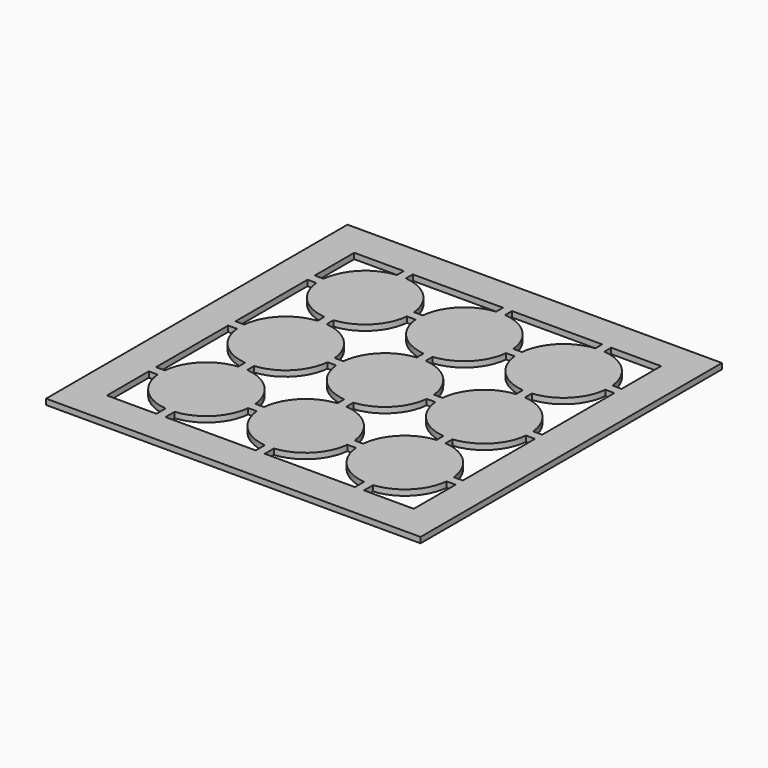
from build123d import *

# Parameters (mm, degrees)
F0_W     = 105.460206
F0_H     = 106.09659
F1_DEPTH = 1.6


with BuildPart() as f1:
    # F0 (on Top) → F1 (new body)
    with BuildSketch(Plane.XY):
        with Locations((236.142386, 64.362091)):
            Rectangle(F0_W, F0_H)
        with BuildLine():
            Line((192.937283, 35.55936), (195.399541, 35.55936))
            ThreePointArc((195.399541, 35.55936), (199.093456, 27.759301), (206.893515, 24.065386))
            Line((206.893515, 24.065386), (206.893515, 20.838796))
            Line((206.893515, 20.838796), (192.937283, 20.838796))
            Line((192.937283, 20.838796), (192.937283, 35.55936))
        make_face(mode=Mode.SUBTRACT)
        with BuildLine():
            Line((234.833515, 20.838796), (209.433515, 20.838796))
            Line((209.433515, 20.838796), (209.433515, 24.065386))
            ThreePointArc((209.433515, 24.065386), (217.233573, 27.759301), (220.927489, 35.55936))
            Line((220.927489, 35.55936), (223.339541, 35.55936))
            ThreePointArc((223.339541, 35.55936), (227.033456, 27.759301), (234.833515, 24.065386))
            Line((234.833515, 24.065386), (234.833515, 20.838796))
        make_face(mode=Mode.SUBTRACT)
        with BuildLine():
            Line((206.893515, 52.005386), (206.893515, 49.593334))
            ThreePointArc((206.893515, 49.593334), (199.099195, 45.905154), (195.401158, 38.115505))
            Line((195.401158, 38.115505), (192.937283, 38.115505))
            Line((192.937283, 38.115505), (192.937283, 63.49936))
            Line((192.937283, 63.49936), (195.399541, 63.49936))
            ThreePointArc((195.399541, 63.49936), (199.093456, 55.699301), (206.893515, 52.005386))
        make_face(mode=Mode.SUBTRACT)
        with BuildLine():
            Line((223.341158, 38.115505), (220.925872, 38.115505))
            ThreePointArc((220.925872, 38.115505), (217.227835, 45.905154), (209.433515, 49.593334))
            Line((209.433515, 49.593334), (209.433515, 52.005386))
            ThreePointArc((209.433515, 52.005386), (217.233573, 55.699301), (220.927489, 63.49936))
            Line((220.927489, 63.49936), (223.339541, 63.49936))
            ThreePointArc((223.339541, 63.49936), (227.033456, 55.699301), (234.833515, 52.005386))
            Line((234.833515, 52.005386), (234.833515, 49.593334))
            ThreePointArc((234.833515, 49.593334), (227.039195, 45.905154), (223.341158, 38.115505))
        make_face(mode=Mode.SUBTRACT)
        with BuildLine():
            Line((237.373515, 20.838796), (237.373515, 24.065386))
            ThreePointArc((237.373515, 24.065386), (245.173573, 27.759301), (248.867489, 35.55936))
            Line((248.867489, 35.55936), (251.279541, 35.55936))
            ThreePointArc((251.279541, 35.55936), (254.973456, 27.759301), (262.773515, 24.065386))
            Line((262.773515, 24.065386), (262.773515, 20.838796))
            Line((262.773515, 20.838796), (237.373515, 20.838796))
        make_face(mode=Mode.SUBTRACT)
        with BuildLine():
            Line((265.313515, 20.838796), (265.313515, 24.065386))
            ThreePointArc((265.313515, 24.065386), (273.113573, 27.759301), (276.807489, 35.55936))
            Line((276.807489, 35.55936), (279.347489, 35.55936))
            Line((279.347489, 35.55936), (279.347489, 20.838796))
            Line((279.347489, 20.838796), (265.313515, 20.838796))
        make_face(mode=Mode.SUBTRACT)
        with BuildLine():
            Line((251.281158, 38.115505), (248.865872, 38.115505))
            ThreePointArc((248.865872, 38.115505), (245.167835, 45.905154), (237.373515, 49.593334))
            Line((237.373515, 49.593334), (237.373515, 52.005386))
            ThreePointArc((237.373515, 52.005386), (245.173573, 55.699301), (248.867489, 63.49936))
            Line((248.867489, 63.49936), (251.279541, 63.49936))
            ThreePointArc((251.279541, 63.49936), (254.973456, 55.699301), (262.773515, 52.005386))
            Line((262.773515, 52.005386), (262.773515, 49.593334))
            ThreePointArc((262.773515, 49.593334), (254.979195, 45.905154), (251.281158, 38.115505))
        make_face(mode=Mode.SUBTRACT)
        with BuildLine():
            Line((279.347489, 38.09936), (276.807489, 38.09936))
            ThreePointArc((276.807489, 38.09936), (273.113573, 45.899419), (265.313515, 49.593334))
            Line((265.313515, 49.593334), (265.313515, 52.005386))
            ThreePointArc((265.313515, 52.005386), (273.113573, 55.699301), (276.807489, 63.49936))
            Line((276.807489, 63.49936), (279.347489, 63.49936))
            Line((279.347489, 63.49936), (279.347489, 38.09936))
        make_face(mode=Mode.SUBTRACT)
        with BuildLine():
            Line((206.893515, 79.945386), (206.893515, 77.533334))
            ThreePointArc((206.893515, 77.533334), (199.099195, 73.845154), (195.401158, 66.055505))
            Line((195.401158, 66.055505), (192.937283, 66.055505))
            Line((192.937283, 66.055505), (192.937283, 91.43936))
            Line((192.937283, 91.43936), (195.399541, 91.43936))
            ThreePointArc((195.399541, 91.43936), (199.093456, 83.639301), (206.893515, 79.945386))
        make_face(mode=Mode.SUBTRACT)
        with BuildLine():
            Line((223.341158, 66.055505), (220.925872, 66.055505))
            ThreePointArc((220.925872, 66.055505), (217.227835, 73.845154), (209.433515, 77.533334))
            Line((209.433515, 77.533334), (209.433515, 79.945386))
            ThreePointArc((209.433515, 79.945386), (217.233573, 83.639301), (220.927489, 91.43936))
            Line((220.927489, 91.43936), (223.339541, 91.43936))
            ThreePointArc((223.339541, 91.43936), (227.033456, 83.639301), (234.833515, 79.945386))
            Line((234.833515, 79.945386), (234.833515, 77.533334))
            ThreePointArc((234.833515, 77.533334), (227.039195, 73.845154), (223.341158, 66.055505))
        make_face(mode=Mode.SUBTRACT)
        with BuildLine():
            Line((206.893515, 107.885386), (206.893515, 105.473334))
            ThreePointArc((206.893515, 105.473334), (199.099195, 101.785154), (195.401158, 93.995505))
            Line((195.401158, 93.995505), (192.937283, 93.995505))
            Line((192.937283, 93.995505), (192.937283, 107.885386))
            Line((192.937283, 107.885386), (206.893515, 107.885386))
        make_face(mode=Mode.SUBTRACT)
        with BuildLine():
            Line((223.341158, 93.995505), (220.925872, 93.995505))
            ThreePointArc((220.925872, 93.995505), (217.227835, 101.785154), (209.433515, 105.473334))
            Line((209.433515, 105.473334), (209.433515, 107.885386))
            Line((209.433515, 107.885386), (234.833515, 107.885386))
            Line((234.833515, 107.885386), (234.833515, 105.473334))
            ThreePointArc((234.833515, 105.473334), (227.039195, 101.785154), (223.341158, 93.995505))
        make_face(mode=Mode.SUBTRACT)
        with BuildLine():
            Line((251.281158, 66.055505), (248.865872, 66.055505))
            ThreePointArc((248.865872, 66.055505), (245.167835, 73.845154), (237.373515, 77.533334))
            Line((237.373515, 77.533334), (237.373515, 79.945386))
            ThreePointArc((237.373515, 79.945386), (245.173573, 83.639301), (248.867489, 91.43936))
            Line((248.867489, 91.43936), (251.279541, 91.43936))
            ThreePointArc((251.279541, 91.43936), (254.973456, 83.639301), (262.773515, 79.945386))
            Line((262.773515, 79.945386), (262.773515, 77.533334))
            ThreePointArc((262.773515, 77.533334), (254.979195, 73.845154), (251.281158, 66.055505))
        make_face(mode=Mode.SUBTRACT)
        with BuildLine():
            Line((279.347489, 66.03936), (276.807489, 66.03936))
            ThreePointArc((276.807489, 66.03936), (273.113573, 73.839419), (265.313515, 77.533334))
            Line((265.313515, 77.533334), (265.313515, 79.945386))
            ThreePointArc((265.313515, 79.945386), (273.113573, 83.639301), (276.807489, 91.43936))
            Line((276.807489, 91.43936), (279.347489, 91.43936))
            Line((279.347489, 91.43936), (279.347489, 66.03936))
        make_face(mode=Mode.SUBTRACT)
        with BuildLine():
            Line((251.281158, 93.995505), (248.865872, 93.995505))
            ThreePointArc((248.865872, 93.995505), (245.167835, 101.785154), (237.373515, 105.473334))
            Line((237.373515, 105.473334), (237.373515, 107.885386))
            Line((237.373515, 107.885386), (262.773515, 107.885386))
            Line((262.773515, 107.885386), (262.773515, 105.473334))
            ThreePointArc((262.773515, 105.473334), (254.979195, 101.785154), (251.281158, 93.995505))
        make_face(mode=Mode.SUBTRACT)
        with BuildLine():
            Line((279.347489, 93.97936), (276.807489, 93.97936))
            ThreePointArc((276.807489, 93.97936), (273.113573, 101.779419), (265.313515, 105.473334))
            Line((265.313515, 105.473334), (265.313515, 107.885386))
            Line((265.313515, 107.885386), (279.347489, 107.885386))
            Line((279.347489, 107.885386), (279.347489, 93.97936))
        make_face(mode=Mode.SUBTRACT)
    extrude(amount=F1_DEPTH)


solid = f1.part
